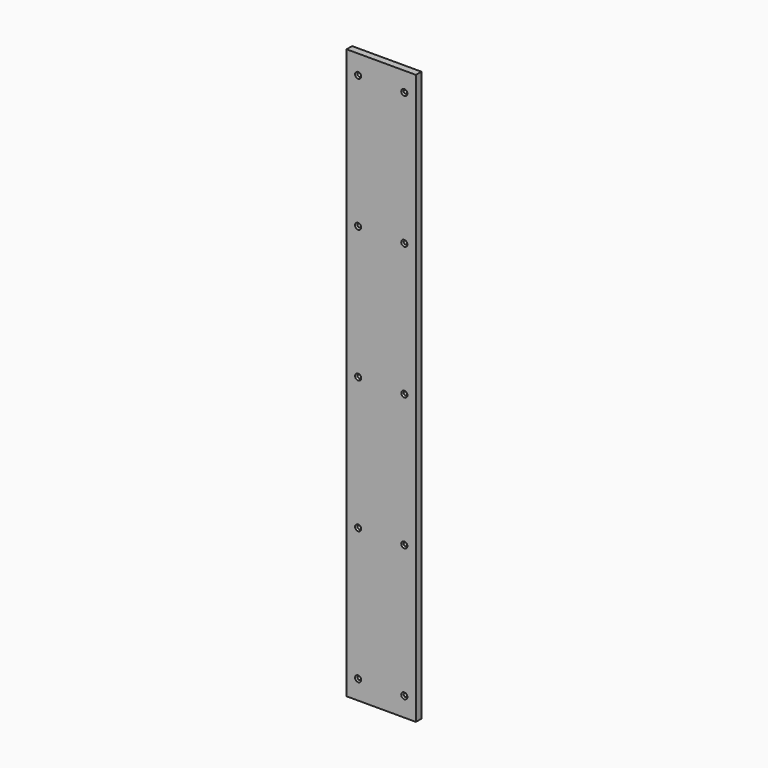
from build123d import *

# Parameters (mm, degrees)
F0_W           = 90
F0_H           = 9
F1_DEPTH       = 740
F3_D           = 4.5
F3_CSINK_D     = 8
F3_CSINK_ANGLE = 90


with BuildPart() as f1:
    # F0 (on Top) → F1 (new body)
    with BuildSketch(Plane.XY):
        Rectangle(F0_W, F0_H)
    extrude(amount=-F1_DEPTH)

    # F3 (through all)
    with Locations(Plane.XZ.offset(4.5)):
        with Locations((-30, -715), (-30, -25), (-30, -542.5), (-30, -370), (-30, -197.5), (30, -25), (30, -197.5), (30, -370), (30, -542.5), (30, -715)):
            CounterSinkHole(F3_D / 2, F3_CSINK_D / 2, counter_sink_angle=F3_CSINK_ANGLE)


solid = f1.part
